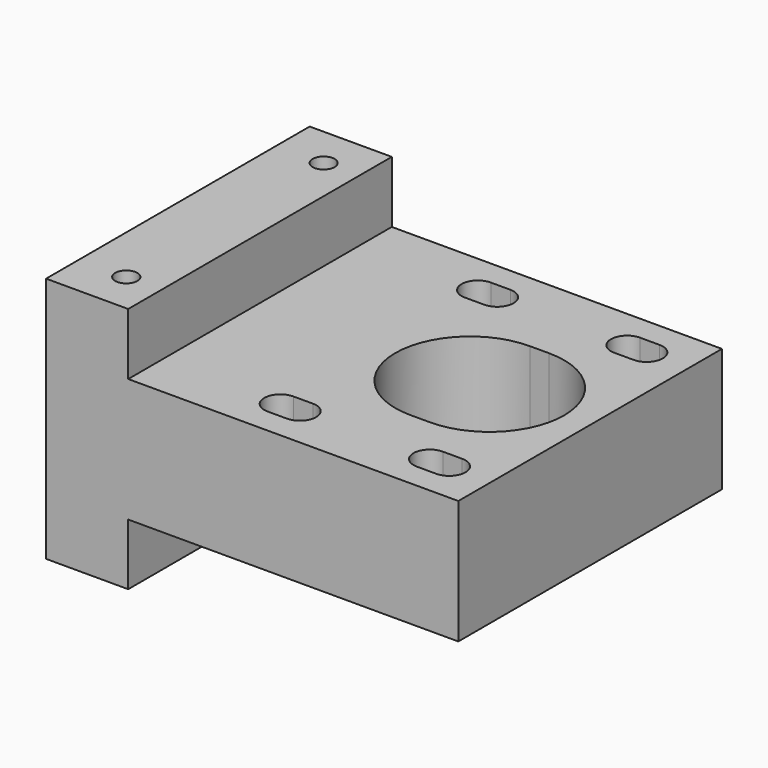
from build123d import *

# Parameters (mm, degrees)
SKETCH_W                 = 101.5
SKETCH_H                 = 127
PAD_DEPTH                = 38.1
SKETCH001_W              = 101.5
SKETCH001_H              = 25.3
PAD001_DEPTH             = 19
PAD001_DEPTH_BACK        = 57
SKETCH002_R              = 3.4
POCKET_DEPTH             = 25
POCKET001_DEPTH          = 10
CLONE001_PLACEMENT_ANGLE = -90


with BuildPart() as part:
    # Sketch → Pad (new body)
    with BuildSketch(Plane.XY):
        with Locations((0, -31.5)):
            Rectangle(SKETCH_W, SKETCH_H)
        with BuildLine():
            ThreePointArc((23, 1), (0, 24), (-23, 1))
            Line((-23, 1), (-23, -5))
            ThreePointArc((-23, -5), (0, -28), (23, -5))
            Line((23, 1), (23, -5))
        make_face(mode=Mode.SUBTRACT)
        with BuildLine():
            ThreePointArc((-33, 19), (-38, 24), (-43, 19))
            Line((-43, 19), (-43, 13))
            ThreePointArc((-43, 13), (-38, 8), (-33, 13))
            Line((-33, 19), (-33, 13))
        make_face(mode=Mode.SUBTRACT)
        with BuildLine():
            ThreePointArc((43, 19), (38, 24), (33, 19))
            Line((33, 19), (33, 13))
            ThreePointArc((33, 13), (38, 8), (43, 13))
            Line((43, 19), (43, 13))
        make_face(mode=Mode.SUBTRACT)
        with BuildLine():
            ThreePointArc((43, -27), (38, -22), (33, -27))
            Line((33, -27), (33, -33))
            ThreePointArc((33, -33), (38, -38), (43, -33))
            Line((43, -27), (43, -33))
        make_face(mode=Mode.SUBTRACT)
        with BuildLine():
            ThreePointArc((-33, -27), (-38, -22), (-43, -27))
            Line((-43, -27), (-43, -33))
            ThreePointArc((-43, -33), (-38, -38), (-33, -33))
            Line((-33, -27), (-33, -33))
        make_face(mode=Mode.SUBTRACT)
    extrude(amount=PAD_DEPTH)

    # Sketch001 (on Face26 of Pad) → Pad001 (join, two sides)
    with BuildSketch(Plane.XY.offset(38.1)) as pad001_sk:
        with Locations((0, -82.35)):
            Rectangle(SKETCH001_W, SKETCH001_H)
    extrude(amount=PAD001_DEPTH)
    extrude(pad001_sk.sketch, amount=-PAD001_DEPTH_BACK)

    # Sketch002 (on Face36 of Pad001) → Pocket (cut)
    with BuildSketch(Plane.XY.offset(57.1)):
        with Locations((-38, -80.5)):
            Circle(SKETCH002_R)
        with Locations((38, -80.5)):
            Circle(SKETCH002_R)
    extrude(amount=-POCKET_DEPTH, mode=Mode.SUBTRACT)

    # Sketch003 (on Face4 of Pocket) → Pocket001 (cut)
    with BuildSketch(Plane(origin=(0, 0, 0), x_dir=(1, 0, 0), z_dir=(0, 0, -1))):
        with BuildLine():
            ThreePointArc((-30.6, 33), (-38, 40.4), (-45.4, 33))
            Line((-45.4, 33), (-45.4, 27))
            ThreePointArc((-45.4, 27), (-38, 19.6), (-30.6, 27))
            Line((-30.6, 33), (-30.6, 27))
        make_face()
        with BuildLine():
            ThreePointArc((45.4, 33), (38, 40.4), (30.6, 33))
            Line((30.6, 33), (30.6, 27))
            ThreePointArc((30.6, 27), (38, 19.6), (45.4, 27))
            Line((45.4, 33), (45.4, 27))
        make_face()
        with BuildLine():
            ThreePointArc((45.4, -13), (38, -5.6), (30.6, -13))
            Line((30.6, -13), (30.6, -19))
            ThreePointArc((30.6, -19), (38, -26.4), (45.4, -19))
            Line((45.4, -13), (45.4, -19))
        make_face()
        with BuildLine():
            ThreePointArc((-30.6, -13), (-38, -5.6), (-45.4, -13))
            Line((-45.4, -13), (-45.4, -19))
            ThreePointArc((-45.4, -19), (-38, -26.4), (-30.6, -19))
            Line((-30.6, -13), (-30.6, -19))
        make_face()
    extrude(amount=-POCKET001_DEPTH, mode=Mode.SUBTRACT)


with BuildPart() as part_1:
    # Clone001 placement: moved
    add(part.part.moved(Location((0, 0, -57.1))).rotate(Axis((0, 0, -57.1), (0, 0, 1)), CLONE001_PLACEMENT_ANGLE))


solid = part_1.part
